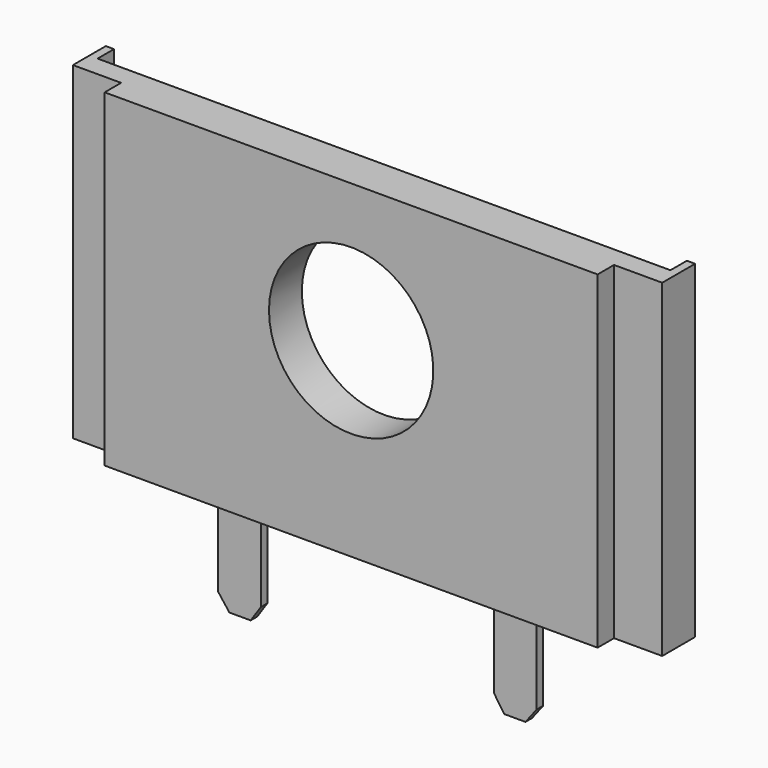
from build123d import *

# Parameters (mm, degrees)
F1_DEPTH = 25.4
F3_START = -20.32
F3_DEPTH = 5.08
F4_W     = 43.18
F4_H     = 203.2
F5_DEPTH = 12.7
F6_W     = 5.08
F6_H     = 203.2
F7_DEPTH = 12.7
F8_R     = 50.8
F9_DEPTH = 25.4


with BuildPart() as f1:
    # F0 (on Front) → F1 (new body)
    with BuildSketch(Plane.XZ):
        Polygon((0, 76.7976452439), (-152.4, 76.7976452439), (-152.4, -126.4023547561), (0, -126.4023547561), (152.4, -126.4023547561), (152.4, 76.7976452439), align=None)
    extrude(amount=F1_DEPTH)

    # F2 (on face) → F3 (join)
    with BuildSketch(Plane.XZ.offset(25.4).offset(F3_START)):
        Polygon((-72.1423849463, -126.4023547561), (-98.4636694193, -126.4023547561), (-98.4636694193, -185.8566617808), (-72.1423849463, -185.6018817267), align=None)
        Polygon((-72.1423849463, -185.6018817267), (-98.4636694193, -185.8566617808), (-91.5363952518, -194.8621189437), (-78.3745795488, -194.8621189437), align=None)
        Polygon((72.1423849463, -126.4023547561), (72.1423849463, -185.6018817267), (98.4636694193, -185.8566617808), (98.4636694193, -126.4023547561), align=None)
        Polygon((98.4636694193, -185.8566617808), (72.1423849463, -185.6018817267), (78.3745795488, -194.8621189437), (91.5363952518, -194.8621189437), align=None)
    extrude(amount=-F3_DEPTH)

    # F4 (on face) → F5 (join)
    with BuildSketch(Plane(origin=(0, 0, 0), x_dir=(-1, 0, 0), z_dir=(0, 1, 0))):
        with Locations((-160.6027390623, -24.8023547561)):
            Rectangle(F4_W, F4_H)
        with Locations((160.6027390623, -24.8023547561)):
            Rectangle(F4_W, F4_H)
    extrude(amount=-F5_DEPTH)

    # F6 (on face) → F7 (join)
    with BuildSketch(Plane(origin=(0, 0, 0), x_dir=(-1, 0, 0), z_dir=(0, 1, 0))):
        with Locations((-179.6527390623, -24.8023547561)):
            Rectangle(F6_W, F6_H)
        with Locations((179.6527390623, -24.8023547561)):
            Rectangle(F6_W, F6_H)
    extrude(amount=F7_DEPTH)

    # F8 (on face) → F9 (cut)
    with BuildSketch(Plane(origin=(0, 0, 0), x_dir=(-1, 0, 0), z_dir=(0, 1, 0))):
        with Locations((0, -8.7385885348)):
            Circle(F8_R)
    extrude(amount=-F9_DEPTH, mode=Mode.SUBTRACT)


solid = f1.part
